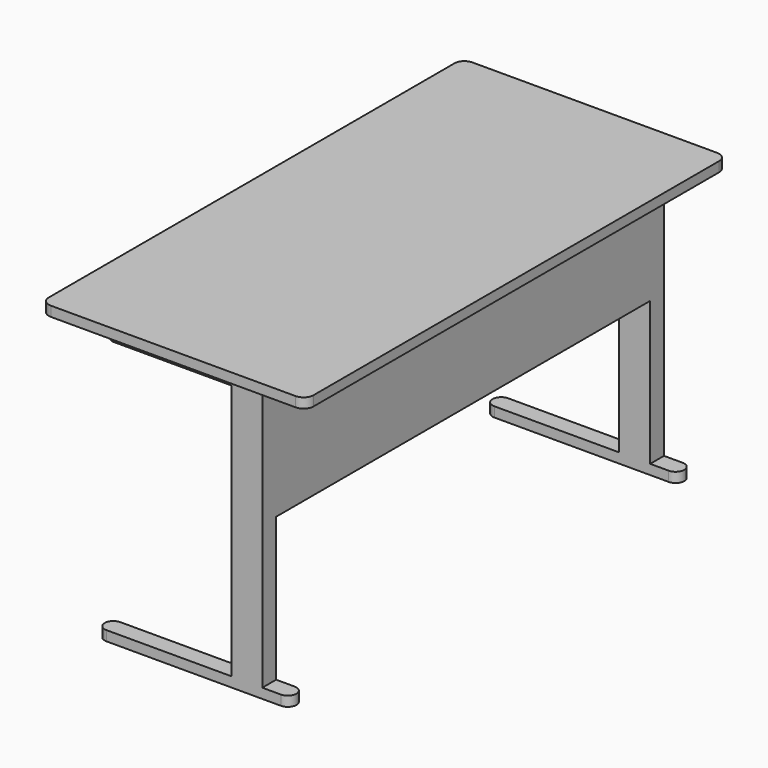
from build123d import *

# Parameters (mm, degrees)
F1_DEPTH = 25.4
F3_DEPTH = 25.4
F5_DEPTH = 288.925
F6_W     = 79.375
F6_H     = 44.45
F7_DEPTH = 368.3
F9_DEPTH = 25.4


with BuildPart() as f1:
    # F0 (on Top) → F1 (new body)
    with BuildSketch(Plane.XY):
        with BuildLine():
            ThreePointArc((339.725, 650.875), (332.285512, 668.835512), (314.325, 676.275))
            Line((314.325, 676.275), (-314.325, 676.275))
            ThreePointArc((-314.325, 676.275), (-332.285512, 668.835512), (-339.725, 650.875))
            Line((-339.725, 650.875), (-339.725, -650.875))
            ThreePointArc((-339.725, -650.875), (-332.285512, -668.835512), (-314.325, -676.275))
            Line((-314.325, -676.275), (314.325, -676.275))
            ThreePointArc((314.325, -676.275), (332.285512, -668.835512), (339.725, -650.875))
            Line((339.725, -650.875), (339.725, 650.875))
        make_face()
    extrude(amount=F1_DEPTH)

    # F2 (on face) → F3 (join)
    with BuildSketch(Plane(origin=(0, 0, 0), x_dir=(1, 0, 0), z_dir=(0, 0, -1))):
        with BuildLine():
            ThreePointArc((-177.8, 644.525), (-200.025, 622.3), (-177.8, 600.075))
            Line((-177.8, 600.075), (184.15, 600.075))
            Line((184.15, 600.075), (184.15, -600.075))
            Line((184.15, -600.075), (-177.8, -600.075))
            ThreePointArc((-177.8, -600.075), (-200.025, -622.3), (-177.8, -644.525))
            Line((-177.8, -644.525), (203.2, -644.525))
            Line((203.2, -644.525), (203.2, 644.525))
            Line((203.2, 644.525), (-177.8, 644.525))
        make_face()
    extrude(amount=F3_DEPTH)

    # F4 (on face) → F5 (join)
    with BuildSketch(Plane(origin=(0, 0, -25.4), x_dir=(1, 0, 0), z_dir=(0, 0, -1))):
        Polygon((123.825, 644.525), (123.825, 600.075), (184.15, 600.075), (184.15, -600.075), (123.825, -600.075), (123.825, -644.525), (203.2, -644.525), (203.2, 644.525), align=None)
    extrude(amount=F5_DEPTH)

    # F6 (on face) → F7 (join)
    with BuildSketch(Plane(origin=(0, 0, -314.325), x_dir=(1, 0, 0), z_dir=(0, 0, -1))):
        with Locations((163.5125, -622.3)):
            Rectangle(F6_W, F6_H)
        with Locations((163.5125, 622.3)):
            Rectangle(F6_W, F6_H)
    extrude(amount=F7_DEPTH)

    # F8 (on face) → F9 (join)
    with BuildSketch(Plane(origin=(0, 0, -682.625), x_dir=(1, 0, 0), z_dir=(0, 0, -1))):
        with BuildLine():
            ThreePointArc((250.825, 600.075), (273.05, 622.3), (250.825, 644.525))
            Line((250.825, 644.525), (-196.85, 644.525))
            ThreePointArc((-196.85, 644.525), (-219.075, 622.3), (-196.85, 600.075))
            Line((-196.85, 600.075), (250.825, 600.075))
        make_face()
        with BuildLine():
            Line((250.825, -600.075), (-196.85, -600.075))
            ThreePointArc((-196.85, -600.075), (-219.075, -622.3), (-196.85, -644.525))
            Line((-196.85, -644.525), (250.825, -644.525))
            ThreePointArc((250.825, -644.525), (273.05, -622.3), (250.825, -600.075))
        make_face()
    extrude(amount=F9_DEPTH)


solid = f1.part
